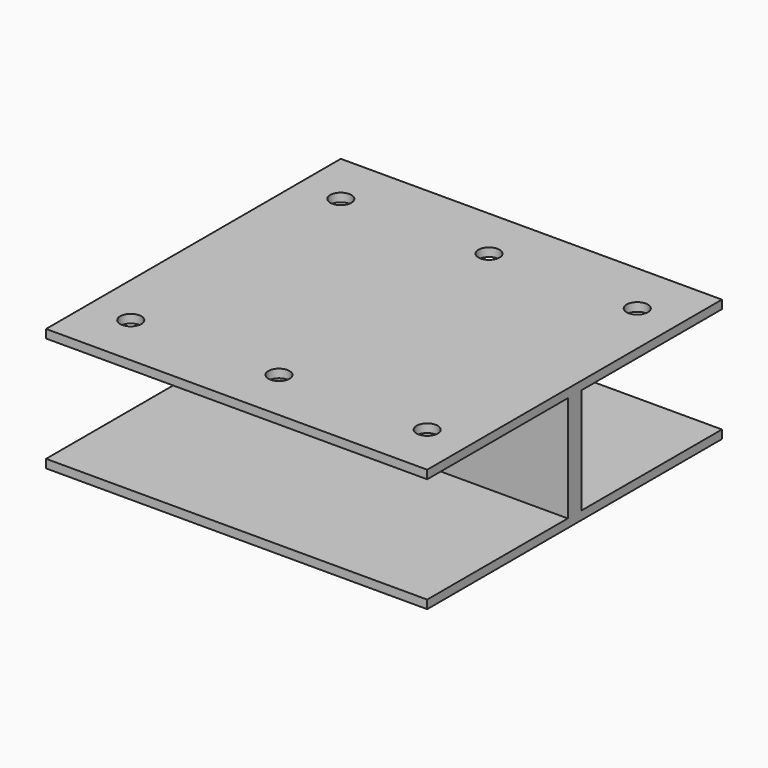
from build123d import *

# Parameters (mm, degrees)
F1_DEPTH = 45
F3_R     = 2.5
F4_DEPTH = 2


with BuildPart() as f1:
    # F0 (on Right) → F1 (new body, symmetric)
    with BuildSketch(Plane.YZ):
        Polygon((0, -29), (0, 0), (-43.5, 0), (-43.5, -2), (-2, -2), (-2, -27), (-43.5, -27), (-43.5, -29), align=None)
    extrude(amount=F1_DEPTH, both=True)

    # F2: F1 across plane


with BuildPart() as f1_1:
    add(f1.part)
    add(f1.part.mirror(Plane.XZ))

    # F3 (on face) → F4 (cut, through all)
    with BuildSketch(Plane.XY):
        with Locations((35, 31)):
            Circle(F3_R)
        with Locations((0, 31)):
            Circle(F3_R)
        with Locations((-35, 31)):
            Circle(F3_R)
        with Locations((-35, -31)):
            Circle(F3_R)
        with Locations((0, -31)):
            Circle(F3_R)
        with Locations((35, -31)):
            Circle(F3_R)
    extrude(amount=-F4_DEPTH, mode=Mode.SUBTRACT)


solid = f1_1.part
